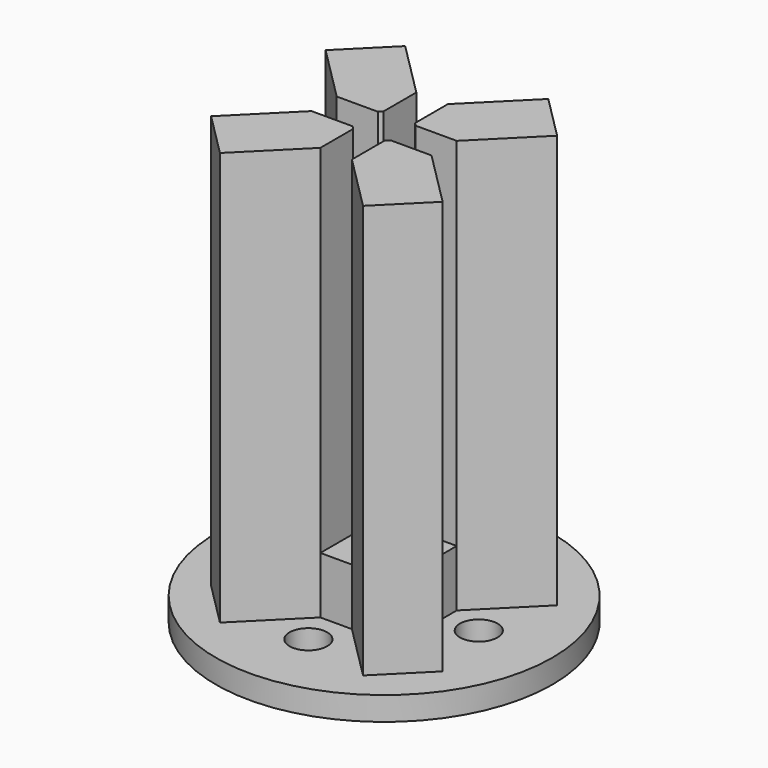
from build123d import *

# Parameters (mm, degrees)
F0_R     = 10.66798
F1_DEPTH = 1.5
F2_R     = 1.19378
F3_DEPTH = 1.501
F4_W     = 7.606
F4_H     = 7.606
F5_DEPTH = 3.6
F6_W     = 2.803
F6_H     = 2.803
F7_DEPTH = 22.606
F9_DEPTH = 26.206
F10_SIZE = 0.2


with BuildPart() as f1:
    # F0 (on Top) → F1 (new body)
    with BuildSketch(Plane.XY):
        Circle(F0_R)
    extrude(amount=F1_DEPTH)

    # F2 (on face) → F3 (cut, through all)
    with BuildSketch(Plane.XY.offset(1.5)):
        with Locations((-6, 0)):
            Circle(F2_R)
        with Locations((0, 6)):
            Circle(F2_R)
        with Locations((6, 0)):
            Circle(F2_R)
        with Locations((0, -6)):
            Circle(F2_R)
    extrude(amount=-F3_DEPTH, mode=Mode.SUBTRACT)

    # F4 (on face) → F5 (join)
    with BuildSketch(Plane.XY.offset(1.5)):
        Rectangle(F4_W, F4_H)
    extrude(amount=F5_DEPTH)

    # F6 (on face) → F7 (join)
    with BuildSketch(Plane.XY.offset(5.1)):
        with Locations((-2.4015, 2.4015)):
            Rectangle(F6_W, F6_H)
        with Locations((-2.4015, -2.4015)):
            Rectangle(F6_W, F6_H)
        with Locations((2.4015, -2.4015)):
            Rectangle(F6_W, F6_H)
        with Locations((2.4015, 2.4015)):
            Rectangle(F6_W, F6_H)
    extrude(amount=F7_DEPTH)

    # F8 (on face) → F9 (join, through all)
    with BuildSketch(Plane.XY.offset(1.5)):
        Polygon((3.803, -3.803), (1, -3.803), (4.535534, -7.338534), (7.338534, -4.535534), (3.803, -1), align=None)
        Polygon((7.338534, 4.535534), (4.535534, 7.338534), (1, 3.803), (3.803, 3.803), (3.803, 1), align=None)
        Polygon((-4.535534, 7.338534), (-7.338534, 4.535534), (-3.803, 1), (-3.803, 3.803), (-1, 3.803), align=None)
        Polygon((-7.338534, -4.535534), (-4.535534, -7.338534), (-1, -3.803), (-3.803, -3.803), (-3.803, -1), align=None)
    extrude(amount=F9_DEPTH)

    # F10
    f10_edges = [f1.edges().sort_by_distance(p)[0] for p in [
        (-1, 1, 16.403),
        (1, 1, 16.403),
        (1, -1, 16.403),
        (-1, -1, 16.403),
    ]]
    chamfer(f10_edges, length=F10_SIZE)


solid = f1.part
